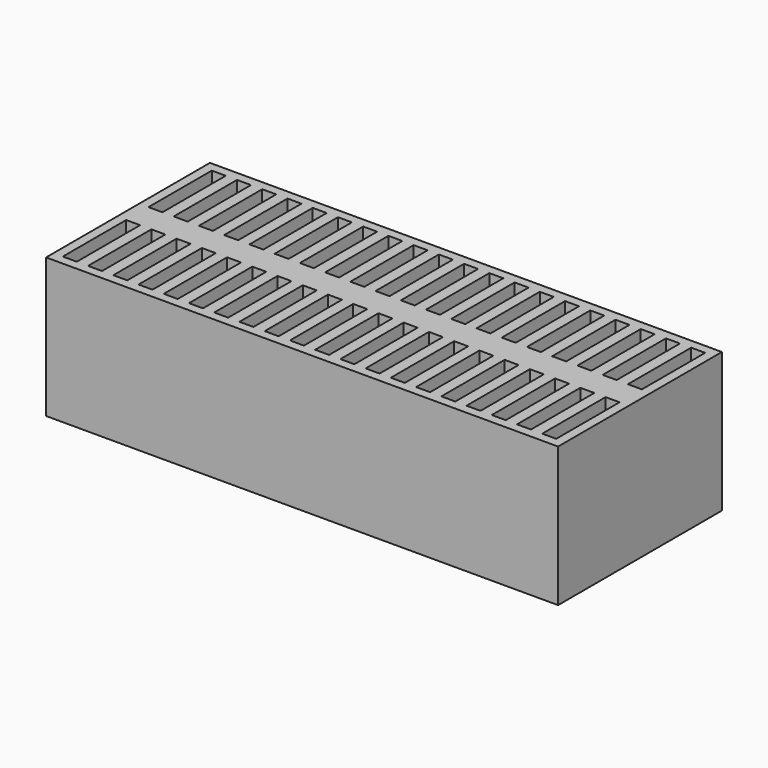
from build123d import *

# Parameters (mm, degrees)
SKETCH031_W          = 55
SKETCH031_H          = 22
PAD010_DEPTH         = 15
SKETCH032_W          = 1.5
SKETCH032_H          = 8.5
POCKET010_DEPTH      = 0.001
POCKET010_DEPTH_BACK = 15.001
LINEARPATTERN_COUNT  = 20
LINEARPATTERN_PITCH  = 2.710526


with BuildPart() as part:
    # Sketch031 → Pad010 (new body)
    with BuildSketch(Plane.XY):
        Rectangle(SKETCH031_W, SKETCH031_H)
    extrude(amount=PAD010_DEPTH)

    # Sketch032 → Pocket010 (cut, two sides)
    with BuildSketch(Plane.XY) as pocket010_sk:
        with Locations((-25.75, 5.75)):
            Rectangle(SKETCH032_W, SKETCH032_H)
        with Locations((-25.75, -5.75)):
            Rectangle(SKETCH032_W, SKETCH032_H)
    pocket010 = extrude(amount=-POCKET010_DEPTH, mode=Mode.SUBTRACT) + extrude(pocket010_sk.sketch, amount=POCKET010_DEPTH_BACK, mode=Mode.SUBTRACT)

    # LinearPattern: Pocket010 ×20
    with Locations(*[(i * LINEARPATTERN_PITCH, 0, 0) for i in range(1, LINEARPATTERN_COUNT)]):
        add(pocket010, mode=Mode.SUBTRACT)


solid = part.part
